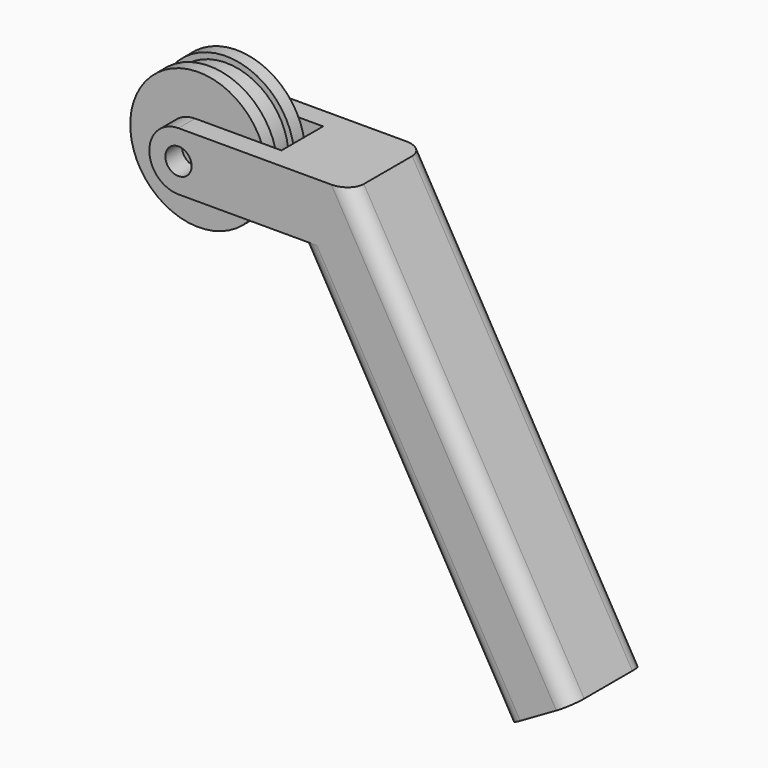
from build123d import *

# Parameters (mm, degrees)
F0_R      = 10.414
F1_DEPTH  = 2.032
F2_R      = 9.525
F3_DEPTH  = 3.2258
F4_R      = 10.414
F5_DEPTH  = 2.032
F6_R      = 2
F7_DEPTH  = 7.2908
F9_DEPTH  = 3.175
F11_DEPTH = 7.9375
F13_DEPTH = 3.175
F14_R     = 2.54
F15_R     = 2
F16_DEPTH = 14.2885


with BuildPart() as f1:
    # F0 (on Front) → F1 (new body)
    with BuildSketch(Plane.XZ):
        Circle(F0_R)
    extrude(amount=F1_DEPTH)

    # F2 (on face) → F3 (join)
    with BuildSketch(Plane.XZ.offset(2.032)):
        Circle(F2_R)
    extrude(amount=F3_DEPTH)

    # F4 (on face) → F5 (join)
    with BuildSketch(Plane.XZ.offset(5.2578)):
        Circle(F4_R)
    extrude(amount=F5_DEPTH)

    # F6 (on face) → F7 (cut, through all)
    with BuildSketch(Plane.XZ.offset(7.2898)):
        Circle(F6_R)
    extrude(amount=-F7_DEPTH, mode=Mode.SUBTRACT)


with BuildPart() as f9:
    # F8 (on face) → F9 (new body)
    with BuildSketch(Plane(origin=(0, 0, 0), x_dir=(-1, 0, 0), z_dir=(0, 1, 0))):
        with BuildLine():
            Line((-18.163297, -4.445), (0, -4.445))
            ThreePointArc((0, -4.445), (4.445, 0), (0, 4.445))
            Line((0, 4.445), (-26.228881, 4.445))
            Line((-26.228881, 4.445), (-59.811968, -53.722613))
            Line((-59.811968, -53.722613), (-49.913297, -59.437613))
            Line((-49.913297, -59.437613), (-18.163297, -4.445))
        make_face()
    extrude(amount=F9_DEPTH)

    # F10 (on face) → F11 (join)
    with BuildSketch(Plane.XZ):
        with BuildLine():
            Line((26.228881, 4.445), (13.160222, 4.445))
            ThreePointArc((13.160222, 4.445), (13.890625, 0), (13.160222, -4.445))
            Line((13.160222, -4.445), (18.163297, -4.445))
            Line((18.163297, -4.445), (49.913297, -59.437613))
            Line((49.913297, -59.437613), (59.811968, -53.722613))
            Line((59.811968, -53.722613), (26.228881, 4.445))
        make_face()
    extrude(amount=F11_DEPTH)

    # F12 (on face) → F13 (join)
    with BuildSketch(Plane.XZ.offset(7.9375)):
        with BuildLine():
            Line((0, -4.445), (18.163297, -4.445))
            Line((18.163297, -4.445), (49.913297, -59.437613))
            Line((49.913297, -59.437613), (59.811968, -53.722613))
            Line((59.811968, -53.722613), (26.228881, 4.445))
            Line((26.228881, 4.445), (0, 4.445))
            ThreePointArc((0, 4.445), (-4.445, 0), (0, -4.445))
        make_face()
    extrude(amount=F13_DEPTH)

    # F14
    f14_edges = [f9.edges().sort_by_distance(p)[0] for p in [
        (43.020424, -11.1125, -24.638807),
        (34.038297, -11.1125, -31.941307),
        (43.020424, 3.175, -24.638807),
        (34.038297, 3.175, -31.941307),
    ]]
    fillet(f14_edges, radius=F14_R)

    # F15 (on face) → F16 (cut, through all)
    with BuildSketch(Plane.XZ.offset(11.1125)):
        Circle(F15_R)
    extrude(amount=-F16_DEPTH, mode=Mode.SUBTRACT)


solid = Compound([f1.part, f9.part])
